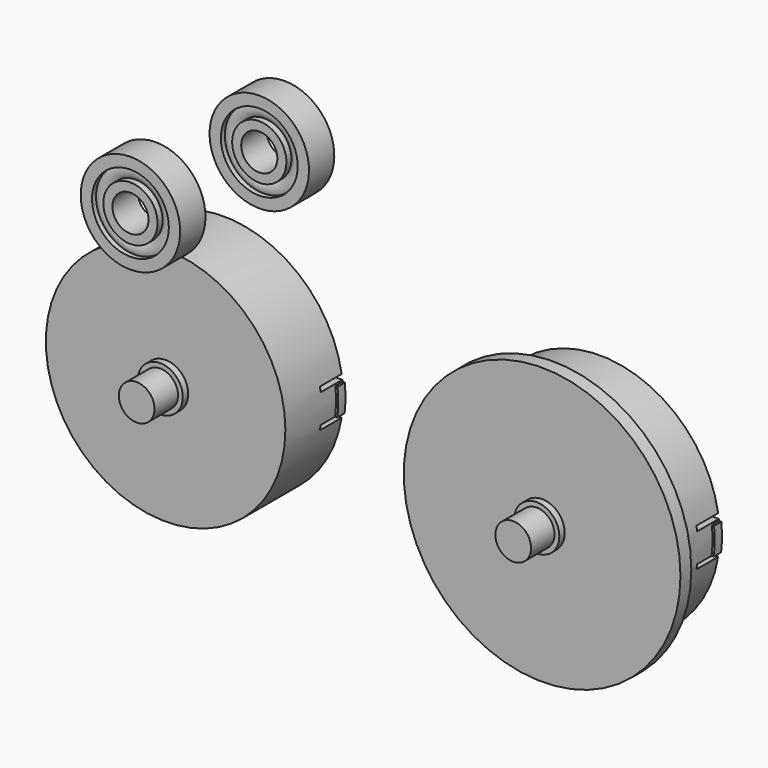
from build123d import *

# Parameters (mm, degrees)
F0_R      = 26.5
F1_DEPTH  = 16
F2_R      = 3.95
F3_DEPTH  = 24
F4_T      = -3
F6_DEPTH  = 2
F7_W      = 3.1964573262
F7_H      = 1.0694003758
F8_DEPTH  = 6
F9_R      = 5
F10_DEPTH = 1.5
F14_R     = 11
F15_DEPTH = 7
F16_R     = 4
F17_DEPTH = 24.001
F23_R     = 30.6153595006
F24_DEPTH = 3


with BuildPart() as f1:
    # F0 (on Front) → F1 (new body)
    with BuildSketch(Plane.XZ):
        Circle(F0_R)
    extrude(amount=F1_DEPTH)

    # F2 (on Front) → F3 (join)
    with BuildSketch(Plane.XZ):
        Circle(F2_R)
    extrude(amount=F3_DEPTH)

    # F4
    f4_openings = [f1.faces().sort_by_distance(p)[0] for p in [
        (0, 0, 0),
    ]]
    offset(amount=F4_T, openings=f4_openings, kind=Kind.INTERSECTION)

    # F5 (on Front) → F6 (join)
    with BuildSketch(Plane.XZ):
        with BuildLine():
            Line((-26.1952467263, 2.8111749241), (-26.8532548408, 2.8111749241))
            ThreePointArc((-26.8532548408, 2.8111749241), (-26.9993314618, -0.1900016263), (-26.8110312117, -3.1888250759))
            Line((-26.8110312117, -3.1888250759), (-26.1952467263, -3.1888250759))
            Line((-26.1952467263, -3.1888250759), (-26.1952467263, 2.8111749241))
        make_face()
        with BuildLine():
            ThreePointArc((26.8110312117, -3.1888250759), (26.9993314618, -0.1900016263), (26.8532548408, 2.8111749241))
            Line((26.8532548408, 2.8111749241), (26.1952467263, 2.8111749241))
            Line((26.1952467263, 2.8111749241), (26.1952467263, -3.1888250759))
            Line((26.1952467263, -3.1888250759), (26.8110312117, -3.1888250759))
        make_face()
    extrude(amount=F6_DEPTH)

    # F7 (on face) → F8 (cut)
    with BuildSketch(Plane(origin=(0, 0, 0), x_dir=(-1, 0, 0), z_dir=(0, 1, 0))):
        with Locations((24.7092112472, -3.7235252638)):
            Rectangle(F7_W, F7_H)
        with Locations((24.7092112472, 3.7235252638)):
            Rectangle(F7_W, F7_H)
        with Locations((-24.7092112472, -3.7235252638)):
            Rectangle(F7_W, F7_H)
        with Locations((-24.7092112472, 3.7235252638)):
            Rectangle(F7_W, F7_H)
    extrude(amount=-F8_DEPTH, mode=Mode.SUBTRACT)

    # F9 (on face) → F10 (join)
    with BuildSketch(Plane.XZ.offset(16)):
        Circle(F9_R)
    extrude(amount=F10_DEPTH)


with BuildPart() as f11_1:
    # F11: copy of F1
    add(f1.part)


with BuildPart() as f13_1:
    # F13: copy of F1
    add(f1.part.moved(Location((83.31622, 0, 0))))

    # F23 (on face) → F24 (join)
    with BuildSketch(Plane.XZ.offset(16)):
        with Locations((83.31622, 0)):
            Circle(F23_R)
    extrude(amount=-F24_DEPTH)


with BuildPart() as f15:
    # F14 (on Front) → F15 (new body)
    with BuildSketch(Plane.XZ):
        with Locations((-54.6456985176, 51.4065474272)):
            Circle(F14_R)
    extrude(amount=F15_DEPTH)

    # F16 (on Front) → F17 (cut, through all)
    with BuildSketch(Plane.XZ):
        with Locations((-54.6456985176, 51.4065474272)):
            Circle(F16_R)
    extrude(amount=F17_DEPTH, mode=Mode.SUBTRACT)


with BuildPart() as f18_1:
    # F18: copy of F15
    add(f15.part.moved(Location((34.78096, 0, 0))))


with BuildPart() as f20:
    # F19 (on Right) → F20 (revolve)
    with BuildSketch(Plane.YZ):
        with BuildLine():
            Line((-18.7298041098, 41.5435016217), (-18.7298041098, 43.5435016217))
            Line((-18.7298041098, 43.5435016217), (-20.335704416, 43.5435016217))
            ThreePointArc((-20.335704416, 43.5435016217), (-22.335704416, 42.5435016217), (-24.335704416, 43.5435016217))
            Line((-24.335704416, 43.5435016217), (-25.7298041098, 43.5435016217))
            Line((-25.7298041098, 43.5435016217), (-25.7298041098, 41.5435016217))
            Line((-25.7298041098, 41.5435016217), (-18.7298041098, 41.5435016217))
        make_face()
        with BuildLine():
            Line((-25.7298041098, 46.0435016217), (-24.6269922635, 46.0435016217))
            ThreePointArc((-24.6269922635, 46.0435016217), (-22.335704416, 47.5435016217), (-20.0444165686, 46.0435016217))
            Line((-20.0444165686, 46.0435016217), (-18.7298041098, 46.0435016217))
            Line((-18.7298041098, 46.0435016217), (-18.7298041098, 48.5435016217))
            Line((-18.7298041098, 48.5435016217), (-25.7298041098, 48.5435016217))
            Line((-25.7298041098, 48.5435016217), (-25.7298041098, 46.0435016217))
        make_face()
        with BuildLine():
            ThreePointArc((-20.0444165686, 46.0435016217), (-22.335704416, 47.5435016217), (-24.6269922635, 46.0435016217))
            Line((-24.6269922635, 46.0435016217), (-20.0444165686, 46.0435016217))
        make_face()
        with BuildLine():
            Line((-24.335704416, 43.5435016217), (-20.335704416, 43.5435016217))
            ThreePointArc((-20.335704416, 43.5435016217), (-19.9639961709, 44.2529322066), (-19.835704416, 45.0435016217))
            ThreePointArc((-19.835704416, 45.0435016217), (-19.8884386337, 45.5542757309), (-20.0444165686, 46.0435016217))
            Line((-20.0444165686, 46.0435016217), (-24.6269922635, 46.0435016217))
            ThreePointArc((-24.6269922635, 46.0435016217), (-24.8189055451, 44.754171097), (-24.335704416, 43.5435016217))
        make_face()
        with BuildLine():
            ThreePointArc((-24.335704416, 43.5435016217), (-22.335704416, 42.5435016217), (-20.335704416, 43.5435016217))
            Line((-20.335704416, 43.5435016217), (-24.335704416, 43.5435016217))
        make_face()
    revolve(axis=Axis((0, -24.6837614104, 37.5435016217), (0, -1, 0)))


with BuildPart() as f22_1:
    # F22: copy of F20
    add(f20.part.moved(Location((28.51172, 0, 21.19621))))


solid = Compound([f1.part, f13_1.part, f20.part, f22_1.part])
